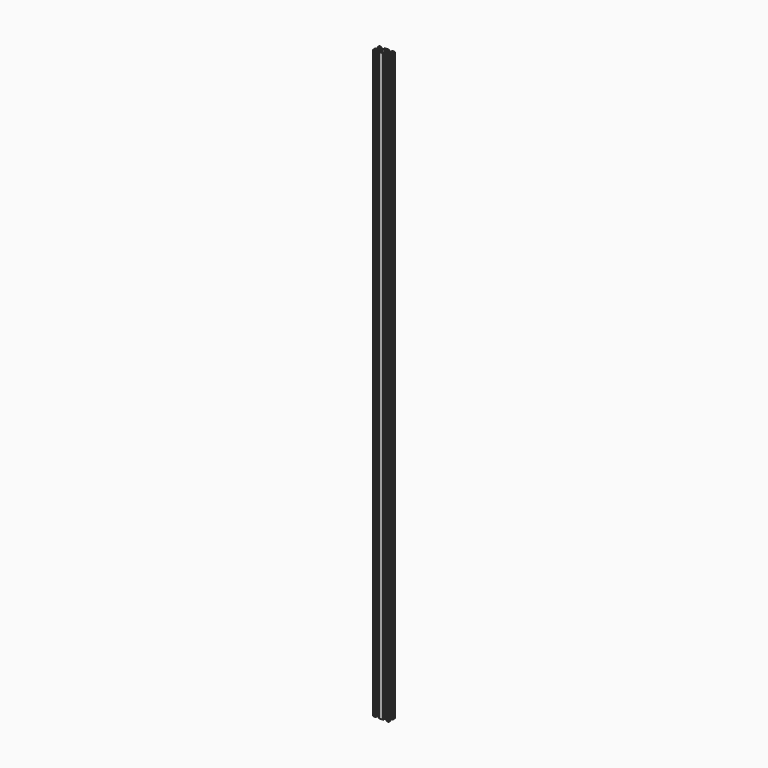
from build123d import *

# Parameters (mm, degrees)
F1_DEPTH = 1500
F3_DEPTH = 1500.001
F4_R     = 2.1
F5_DEPTH = 1500.001


with BuildPart() as f1:
    # F0 (on Top) → F1 (new body)
    with BuildSketch(Plane.XY):
        Polygon((0, 5.2), (0, 0), (5.2, 0), (7, 1.8), (4.4, 1.8), (4.4, 3.44), (7.16, 6.2), (12.84, 6.2), (15.6, 3.44), (15.6, 1.8), (13, 1.8), (14.8, 0), (25.2, 0), (27, 1.8), (24.4, 1.8), (24.4, 3.44), (27.16, 6.2), (32.84, 6.2), (35.6, 3.44), (35.6, 1.8), (33, 1.8), (34.8, 0), (40, 0), (40, 5.2), (38.2, 7), (38.2, 4.4), (36.56, 4.4), (33.8, 7.16), (33.8, 12.84), (36.56, 15.6), (38.2, 15.6), (38.2, 13), (40, 14.8), (40, 20), (34.8, 20), (33, 18.2), (35.6, 18.2), (35.6, 16.56), (32.84, 13.8), (27.16, 13.8), (24.4, 16.56), (24.4, 18.2), (27, 18.2), (25.2, 20), (14.8, 20), (13, 18.2), (15.6, 18.2), (15.6, 16.56), (12.84, 13.8), (7.16, 13.8), (4.4, 16.56), (4.4, 18.2), (7, 18.2), (5.2, 20), (0, 20), (0, 14.8), (1.8, 13), (1.8, 15.6), (3.44, 15.6), (6.2, 12.84), (6.2, 7.16), (3.44, 4.4), (1.8, 4.4), (1.8, 7), align=None)
    extrude(amount=F1_DEPTH)

    # F2 (on face) → F3 (cut, through all)
    with BuildSketch(Plane.XY.offset(1500)):
        Polygon((3.33, 18.2), (1.8, 18.2), (1.8, 16.67), align=None)
        Polygon((1.8, 3.33), (1.8, 1.8), (3.33, 1.8), align=None)
        Polygon((36.67, 1.8), (38.2, 1.8), (38.2, 3.33), align=None)
        Polygon((38.2, 16.67), (38.2, 18.2), (36.67, 18.2), align=None)
    extrude(amount=-F3_DEPTH, mode=Mode.SUBTRACT)

    # F4 (on face) → F5 (cut, through all)
    with BuildSketch(Plane.XY.offset(1500)):
        Polygon((22.9, 18.2), (17.1, 18.2), (17.1, 16.24), (13.7, 12.84), (13.7, 7.16), (17.1, 3.76), (17.1, 1.8), (22.9, 1.8), (22.9, 3.76), (26.3, 7.16), (26.3, 12.84), (22.9, 16.24), align=None)
        with Locations((30, 10)):
            Circle(F4_R)
        with Locations((10, 10)):
            Circle(F4_R)
    extrude(amount=-F5_DEPTH, mode=Mode.SUBTRACT)


solid = f1.part
